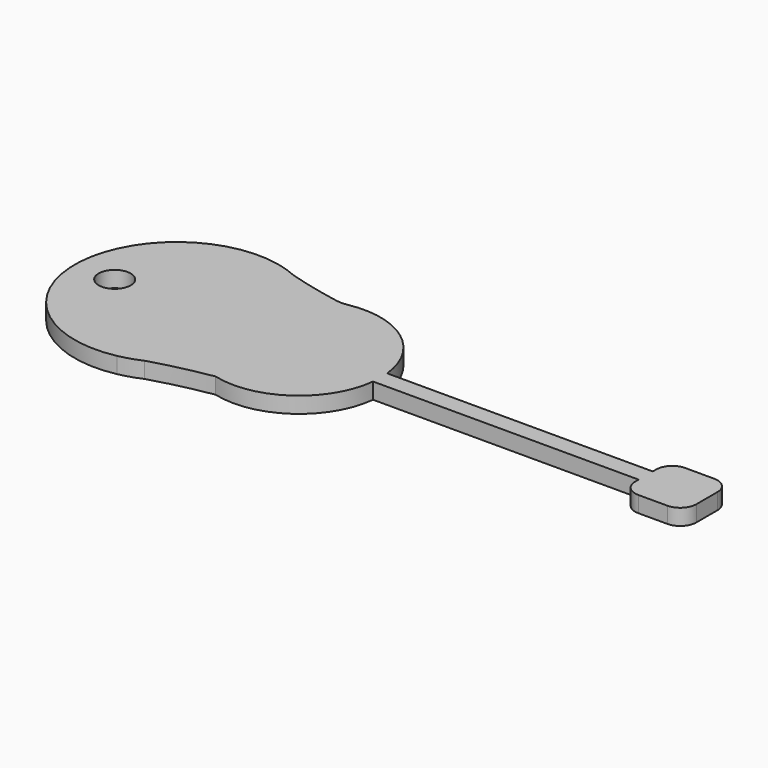
from build123d import *

# Parameters (mm, degrees)
F0_R     = 10
F1_DEPTH = 10
F2_R     = 5
F3_R     = 20
F4_R     = 10
F5_R     = 10


with BuildPart() as f1:
    # F0 (on Top) → F1 (new body)
    with BuildSketch(Plane.XY):
        with BuildLine():
            ThreePointArc((0, 62.217039), (6.753539, 59.93746), (13.558537, 57.816427))
            ThreePointArc((13.558537, 57.816427), (6.903144, 60.3984), (0, 62.217039))
        make_face()
        with BuildLine():
            ThreePointArc((50.8, 49.186888), (32.043845, 52.917227), (13.558537, 57.816427))
            ThreePointArc((13.558537, 57.816427), (6.753539, 59.93746), (0, 62.217039))
            ThreePointArc((0, 62.217039), (-76.2, 0), (0, -62.217039))
            ThreePointArc((0, -62.217039), (6.753539, -59.93746), (13.558537, -57.816427))
            ThreePointArc((13.558537, -57.816427), (32.043845, -52.917227), (50.8, -49.186888))
            ThreePointArc((50.8, -49.186888), (92.38062, -41.791743), (114.0001, -5.5118))
            ThreePointArc((114.0001, -5.5118), (114.3, 0), (114.0001, 5.5118))
            ThreePointArc((114.0001, 5.5118), (92.38062, 41.791743), (50.8, 49.186888))
        make_face()
        with Locations((-51.278312, 0)):
            Circle(F0_R, mode=Mode.SUBTRACT)
        with BuildLine():
            ThreePointArc((13.558537, -57.816427), (6.753539, -59.93746), (0, -62.217039))
            ThreePointArc((0, -62.217039), (6.903144, -60.3984), (13.558537, -57.816427))
        make_face()
        with BuildLine():
            Line((279.4, 5.5118), (114.0001, 5.5118))
            ThreePointArc((114.0001, 5.5118), (114.3, 0), (114.0001, -5.5118))
            Line((114.0001, -5.5118), (279.4, -5.5118))
            Line((279.4, -5.5118), (279.4, 0))
            Line((279.4, 0), (279.4, 5.5118))
        make_face()
        Polygon((279.4, 18.2118), (279.4, 5.5118), (279.4, 0), (279.4, -5.5118), (279.4, -18.2118), (317.5, -18.2118), (317.5, 18.2118), align=None)
    extrude(amount=F1_DEPTH)

    # F2
    f2_edges = [f1.edges().sort_by_distance(p)[0] for p in [
        (13.558537, 57.816427, 5),
    ]]
    fillet(f2_edges, radius=F2_R)

    # F3
    f3_edges = [f1.edges().sort_by_distance(p)[0] for p in [
        (50.8, 49.186888, 5),
    ]]
    fillet(f3_edges, radius=F3_R)

    # F4
    f4_edges = [f1.edges().sort_by_distance(p)[0] for p in [
        (317.5, 18.2118, 5),
        (279.4, 18.2118, 5),
    ]]
    fillet(f4_edges, radius=F4_R)

    # F5
    f5_edges = [f1.edges().sort_by_distance(p)[0] for p in [
        (317.5, -18.2118, 5),
        (279.4, -18.2118, 5),
    ]]
    fillet(f5_edges, radius=F5_R)


solid = f1.part
